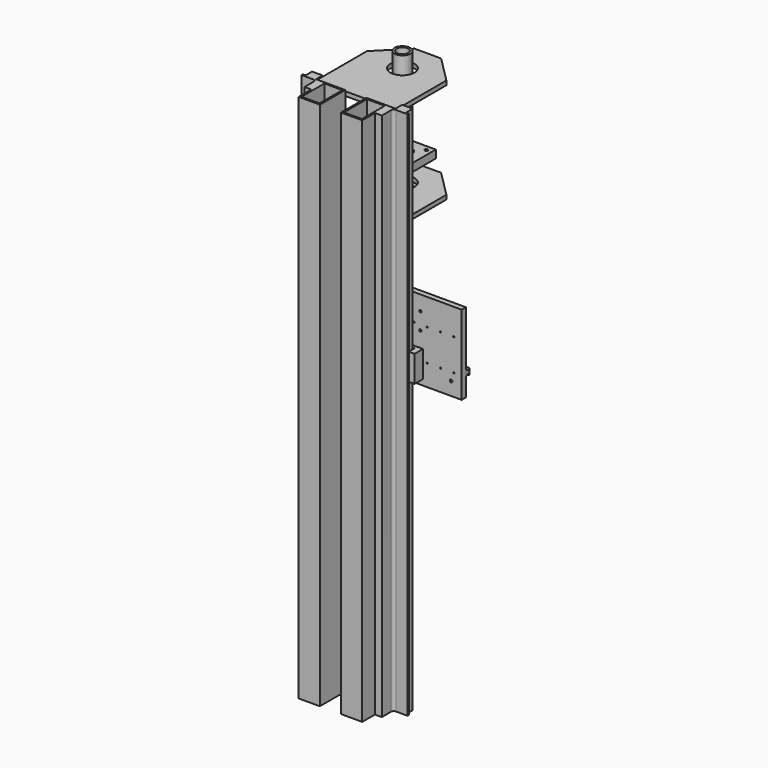
from build123d import *

# Parameters (mm, degrees)
SKETCH_W                = 34
SKETCH_H                = 54
PAD_DEPTH               = 1000
SKETCH001_W             = 34
SKETCH001_H             = 54
PAD001_DEPTH            = 1000
BODY001_PLACEMENT_ANGLE = 180
SKETCH002_W             = 150
SKETCH002_H             = 300
PAD002_DEPTH            = 10
SKETCH003_R             = 2.1
SKETCH003_R_2           = 2.5
SKETCH003_R_3           = 1.2
POCKET_DEPTH            = 10.001
SKETCH019_R             = 4
POCKET007_DEPTH         = 5
BODY002_PLACEMENT_ANGLE = 90
PAD003_DEPTH            = 50
SKETCH005_R             = 2.1
POCKET001_DEPTH         = 6
PAD004_DEPTH            = 50
SKETCH007_R             = 2.1
POCKET002_DEPTH         = 6
PAD005_DEPTH            = 8
SKETCH009_R             = 22.750056
POCKET003_DEPTH         = 8.001
BODY005_PLACEMENT_ANGLE = 90
PAD006_DEPTH            = 8
SKETCH011_R             = 22.750056
POCKET004_DEPTH         = 8.001
BODY006_PLACEMENT_ANGLE = 90
CHAMFER_SIZE            = 3
SKETCH013_R             = 3
HOLE_DEPTH              = 25
CHAMFER001_SIZE         = 2
BODY007_PLACEMENT_ANGLE = 90
SKETCH014_R             = 26
SKETCH014_R_2           = 17.5
PAD007_DEPTH            = 12
SKETCH015_R             = 15
SKETCH015_R_2           = 11
PAD008_DEPTH            = 250
SKETCH016_W             = 70
SKETCH016_H             = 70
PAD009_DEPTH            = 15
SKETCH017_R             = 26
POCKET005_DEPTH         = 11.8
SKETCH018_R             = 3
SKETCH018_R_2           = 17
POCKET006_DEPTH         = 15.001
BODY010_PLACEMENT_ANGLE = 180
PAD010_DEPTH            = 250
SKETCH021_R             = 1.5
POCKET008_DEPTH         = 8.15296
SKETCH022_R             = 3
POCKET009_DEPTH         = 5
BODY011_PLACEMENT_ANGLE = 90
PAD011_DEPTH            = 45.5
SKETCH024_R             = 1.4
POCKET010_DEPTH         = 6
BODY012_PLACEMENT_ANGLE = 90


with BuildPart() as obj1:
    # Sketch → Pad (new body)
    with BuildSketch(Plane.XY):
        with BuildLine():
            Line((0, 0), (40, 0))
            Line((40, 0), (40, 60))
            Line((40, 60), (-15, 60))
            Line((-15, 75.5), (-15, 60))
            Line((-35, 75.5), (-15, 75.5))
            Line((-35, 60), (-35, 75.5))
            Line((-35, 60), (-40, 60))
            Line((-40, 60), (-40, 57))
            Line((-40, 57), (-18, 57))
            ThreePointArc((-13, 52), (-14.464466, 55.535534), (-18, 57))
            Line((-13, 52), (-13, 30))
            Line((-13, 30), (0, 30))
            Line((0, 30), (0, 0))
        make_face()
        with Locations((20, 30)):
            Rectangle(SKETCH_W, SKETCH_H, mode=Mode.SUBTRACT)
    extrude(amount=PAD_DEPTH)


with BuildPart() as obj2:
    # Sketch001 → Pad001 (new body)
    with BuildSketch(Plane.XY):
        with BuildLine():
            Line((0, 0), (40, 0))
            Line((40, 0), (40, 60))
            Line((40, 60), (-15, 60))
            Line((-15, 75.5), (-15, 60))
            Line((-35, 75.5), (-15, 75.5))
            Line((-35, 60), (-35, 75.5))
            Line((-35, 60), (-40, 60))
            Line((-40, 60), (-40, 57))
            Line((-40, 57), (-18, 57))
            ThreePointArc((-13, 52), (-14.464466, 55.535534), (-18, 57))
            Line((-13, 52), (-13, 30))
            Line((-13, 30), (0, 30))
            Line((0, 30), (0, 0))
        make_face()
        with Locations((20, 30)):
            Rectangle(SKETCH001_W, SKETCH001_H, mode=Mode.SUBTRACT)
    extrude(amount=PAD001_DEPTH)


with BuildPart() as obj2_1:
    # Body001 placement: moved
    add(obj2.part.moved(Location((120, 0, 1000))).rotate(Axis((120, 0, 1000), (0, 1, 0)), BODY001_PLACEMENT_ANGLE))


with BuildPart() as obj3:
    # Sketch002 → Pad002 (new body)
    with BuildSketch(Plane.XZ):
        with Locations((75, 150)):
            Rectangle(SKETCH002_W, SKETCH002_H)
    extrude(amount=PAD002_DEPTH)

    # Sketch003 (on Face6 of Pad002) → Pocket (cut, through all)
    with BuildSketch(Plane.XZ.offset(10)):
        with Locations((20, 280)):
            Circle(SKETCH003_R)
        with Locations((52, 280)):
            Circle(SKETCH003_R)
        with Locations((20, 248)):
            Circle(SKETCH003_R)
        with Locations((52, 248)):
            Circle(SKETCH003_R)
        with Locations((90, 280)):
            Circle(SKETCH003_R)
        with Locations((122, 280)):
            Circle(SKETCH003_R)
        with Locations((90, 245)):
            Circle(SKETCH003_R)
        with Locations((122, 245)):
            Circle(SKETCH003_R)
        with Locations((20, 110)):
            Circle(SKETCH003_R)
        with Locations((52, 110)):
            Circle(SKETCH003_R)
        with Locations((20, 78)):
            Circle(SKETCH003_R)
        with Locations((52, 78)):
            Circle(SKETCH003_R)
        with Locations((90, 110)):
            Circle(SKETCH003_R)
        with Locations((122, 110)):
            Circle(SKETCH003_R)
        with Locations((90, 78)):
            Circle(SKETCH003_R)
        with Locations((122, 78)):
            Circle(SKETCH003_R)
        with Locations((25, 20)):
            Circle(SKETCH003_R_2)
        with Locations((40, 290)):
            Circle(SKETCH003_R_3)
        with Locations((100, 290)):
            Circle(SKETCH003_R_3)
        with Locations((40, 265)):
            Circle(SKETCH003_R_3)
        with Locations((100, 265)):
            Circle(SKETCH003_R_3)
        with Locations((40, 240)):
            Circle(SKETCH003_R_3)
        with Locations((100, 240)):
            Circle(SKETCH003_R_3)
        with Locations((40, 215)):
            Circle(SKETCH003_R_3)
        with Locations((100, 215)):
            Circle(SKETCH003_R_3)
        with Locations((40, 190)):
            Circle(SKETCH003_R_3)
        with Locations((100, 190)):
            Circle(SKETCH003_R_3)
        with Locations((40, 165)):
            Circle(SKETCH003_R_3)
        with Locations((100, 165)):
            Circle(SKETCH003_R_3)
        with Locations((40, 140)):
            Circle(SKETCH003_R_3)
        with Locations((100, 140)):
            Circle(SKETCH003_R_3)
        with Locations((40, 115)):
            Circle(SKETCH003_R_3)
        with Locations((100, 115)):
            Circle(SKETCH003_R_3)
        with Locations((40, 90)):
            Circle(SKETCH003_R_3)
        with Locations((100, 90)):
            Circle(SKETCH003_R_3)
        with Locations((40, 65)):
            Circle(SKETCH003_R_3)
        with Locations((100, 65)):
            Circle(SKETCH003_R_3)
        with Locations((40, 40)):
            Circle(SKETCH003_R_3)
        with Locations((100, 40)):
            Circle(SKETCH003_R_3)
        with Locations((40, 15)):
            Circle(SKETCH003_R_3)
        with Locations((100, 15)):
            Circle(SKETCH003_R_3)
    extrude(amount=-POCKET_DEPTH, mode=Mode.SUBTRACT)

    # Sketch019 (on Face4 of Pocket) → Pocket007 (cut)
    with BuildSketch(Plane(origin=(0, 0, 0), x_dir=(1, 0, 0), z_dir=(0, 1, 0))):
        with Locations((121.958676, -279.913208)):
            Circle(SKETCH019_R)
        with Locations((89.958676, -279.913208)):
            Circle(SKETCH019_R)
        with Locations((19.983463, -280.01099)):
            Circle(SKETCH019_R)
        with Locations((51.983463, -280.01099)):
            Circle(SKETCH019_R)
    extrude(amount=-POCKET007_DEPTH, mode=Mode.SUBTRACT)


with BuildPart() as obj3_1:
    # Body002 placement: moved
    add(obj3.part.moved(Location((239, 96, 539))).rotate(Axis((239, 96, 539), (0, -1, 0)), BODY002_PLACEMENT_ANGLE))


with BuildPart() as body003:
    # Sketch004 → Pad003 (new body)
    with BuildSketch(Plane.XY):
        Polygon((0, 0), (11, 0), (11, 14), (31, 14), (31, 0), (42, 0), (42, 22), (0, 22), align=None)
    extrude(amount=PAD003_DEPTH)

    # Sketch005 (on Face7 of Pad003) → Pocket001 (cut)
    with BuildSketch(Plane(origin=(0, 22, 0), x_dir=(-1, 0, 0), z_dir=(0, 1, 0))):
        with Locations((-37, 41)):
            Circle(SKETCH005_R)
        with Locations((-5, 9)):
            Circle(SKETCH005_R)
        with Locations((-5, 41)):
            Circle(SKETCH005_R)
        with Locations((-37, 9)):
            Circle(SKETCH005_R)
    extrude(amount=-POCKET001_DEPTH, mode=Mode.SUBTRACT)


with BuildPart() as body003_1:
    # Body003 placement: moved
    add(body003.part.moved(Location((-46, 66, 550))))


with BuildPart() as body004:
    # Sketch006 → Pad004 (new body)
    with BuildSketch(Plane.XY):
        Polygon((0, 0), (11, 0), (11, 14), (31, 14), (31, 0), (42, 0), (42, 22), (0, 22), align=None)
    extrude(amount=PAD004_DEPTH)

    # Sketch007 (on Face7 of Pad004) → Pocket002 (cut)
    with BuildSketch(Plane(origin=(0, 22, 0), x_dir=(-1, 0, 0), z_dir=(0, 1, 0))):
        with Locations((-37, 41)):
            Circle(SKETCH007_R)
        with Locations((-5, 9)):
            Circle(SKETCH007_R)
        with Locations((-5, 41)):
            Circle(SKETCH007_R)
        with Locations((-37, 9)):
            Circle(SKETCH007_R)
    extrude(amount=-POCKET002_DEPTH, mode=Mode.SUBTRACT)


with BuildPart() as body004_1:
    # Body004 placement: moved
    add(body004.part.moved(Location((124, 66, 550))))


with BuildPart() as obj4:
    # Sketch008 → Pad005 (new body)
    with BuildSketch(Plane.XZ):
        Polygon((0, 0), (150, 0), (150, 120), (100, 170), (50, 170), (0, 120), align=None)
    extrude(amount=PAD005_DEPTH)

    # Sketch009 (on Face8 of Pad005) → Pocket003 (cut, through all)
    with BuildSketch(Plane.XZ.offset(8)):
        with Locations((75, 110)):
            Circle(SKETCH009_R)
    extrude(amount=-POCKET003_DEPTH, mode=Mode.SUBTRACT)


with BuildPart() as obj4_1:
    # Body005 placement: moved
    add(obj4.part.moved(Location((-15, 60, 800))).rotate(Axis((-15, 60, 800), (-1, 0, 0)), BODY005_PLACEMENT_ANGLE))


with BuildPart() as obj5:
    # Sketch010 → Pad006 (new body)
    with BuildSketch(Plane.XZ):
        Polygon((0, 0), (150, 0), (150, 120), (100, 170), (50, 170), (0, 120), align=None)
    extrude(amount=PAD006_DEPTH)

    # Sketch011 (on Face8 of Pad006) → Pocket004 (cut, through all)
    with BuildSketch(Plane.XZ.offset(8)):
        with Locations((75, 110)):
            Circle(SKETCH011_R)
    extrude(amount=-POCKET004_DEPTH, mode=Mode.SUBTRACT)


with BuildPart() as obj5_1:
    # Body006 placement: moved
    add(obj5.part.moved(Location((-15, 60, 990))).rotate(Axis((-15, 60, 990), (-1, 0, 0)), BODY006_PLACEMENT_ANGLE))


with BuildPart() as obj6:
    # Sketch012 → Revolution (revolve)
    with BuildSketch(Plane.XZ):
        Polygon((0, 14), (0, 25), (7, 25), (7, 50), (13, 50), (13, 36), (16, 36), (16, 14), align=None)
    revolve(axis=Axis((0, 0, 0), (1, 0, 0)))

    # Chamfer
    chamfer_edges = [obj6.edges().sort_by_distance(p)[0] for p in [
        (16, 0, -14),
    ]]
    chamfer(chamfer_edges, length=CHAMFER_SIZE)

    # Sketch013 (on Face9 of Chamfer) → Hole (cut)
    with BuildSketch(Plane(origin=(7, 0, 0), x_dir=(0, 0, -1), z_dir=(-1, 0, 0))):
        with Locations((0, 42.5)):
            Circle(SKETCH013_R)
        with Locations((36.80608, -21.25)):
            Circle(SKETCH013_R)
        with Locations((-36.80608, -21.25)):
            Circle(SKETCH013_R)
    extrude(amount=-HOLE_DEPTH, mode=Mode.SUBTRACT)

    # Chamfer001
    chamfer001_edges = [obj6.edges().sort_by_distance(p)[0] for p in [
        (7, -39.5, 0),
        (7, 24.25, 36.80608),
        (7, 24.25, -36.80608),
    ]]
    chamfer(chamfer001_edges, length=CHAMFER001_SIZE)


with BuildPart() as obj6_1:
    # Body007 placement: moved
    add(obj6.part.moved(Location((60, 170, 793))).rotate(Axis((60, 170, 793), (0, 1, 0)), BODY007_PLACEMENT_ANGLE))


with BuildPart() as obj7:
    # Sketch014 → Pad007 (new body)
    with BuildSketch(Plane.XY):
        Circle(SKETCH014_R)
        Circle(SKETCH014_R_2, mode=Mode.SUBTRACT)
    extrude(amount=PAD007_DEPTH)


with BuildPart() as obj7_1:
    # Body008 placement: moved
    add(obj7.part.moved(Location((60, 170, 787))))


with BuildPart() as obj8:
    # Sketch015 → Pad008 (new body)
    with BuildSketch(Plane.XY):
        Circle(SKETCH015_R)
        Circle(SKETCH015_R_2, mode=Mode.SUBTRACT)
    extrude(amount=PAD008_DEPTH)


with BuildPart() as obj8_1:
    # Body009 placement: moved
    add(obj8.part.moved(Location((60, 170, 777))))


with BuildPart() as flangiacuscinetto52:
    # Sketch016 → Pad009 (new body)
    with BuildSketch(Plane.XY):
        Rectangle(SKETCH016_W, SKETCH016_H)
    extrude(amount=PAD009_DEPTH)

    # Sketch017 (on Face6 of Pad009) → Pocket005 (cut)
    with BuildSketch(Plane.XY.offset(15)):
        Circle(SKETCH017_R)
    extrude(amount=-POCKET005_DEPTH, mode=Mode.SUBTRACT)

    # Sketch018 (on Face5 of Pocket005) → Pocket006 (cut, through all)
    with BuildSketch(Plane.XY.offset(15)):
        with Locations((-25, 25)):
            Circle(SKETCH018_R)
        with Locations((25, 25)):
            Circle(SKETCH018_R)
        with Locations((25, -25)):
            Circle(SKETCH018_R)
        with Locations((-25, -25)):
            Circle(SKETCH018_R)
        Circle(SKETCH018_R_2)
    extrude(amount=-POCKET006_DEPTH, mode=Mode.SUBTRACT)


with BuildPart() as flangiacuscinetto52_1:
    # Body010 placement: moved
    add(flangiacuscinetto52.part.moved(Location((60, 170, 860))).rotate(Axis((60, 170, 860), (1, 0, 0)), BODY010_PLACEMENT_ANGLE))


with BuildPart() as obj9:
    # Sketch020 → Pad010 (new body)
    with BuildSketch(Plane.XY):
        with BuildLine():
            Line((-5.5, 0), (5.5, 0))
            ThreePointArc((5.5, 0), (5.949397, 0.280814), (5.894005, 0.807831))
            Line((2.5, 5.15196), (5.894005, 0.807831))
            Line((5.768277, 7.230027), (2.5, 5.15196))
            ThreePointArc((5.768277, 7.230027), (5.980087, 7.791662), (5.5, 8.15196))
            Line((5.5, 8.15196), (-5.5, 8.15196))
            ThreePointArc((-5.5, 8.15196), (-5.980087, 7.791662), (-5.768277, 7.230027))
            Line((-5.768277, 7.230027), (-2.5, 5.15196))
            Line((-2.5, 5.15196), (-5.894005, 0.807831))
            ThreePointArc((-5.894005, 0.807831), (-5.949397, 0.280814), (-5.5, 0))
        make_face()
    extrude(amount=PAD010_DEPTH)

    # Sketch021 (on Face2 of Pad010) → Pocket008 (cut, through all)
    with BuildSketch(Plane(origin=(0, 8.15196, 0), x_dir=(-1, 0, 0), z_dir=(0, 1, 0))):
        with Locations((0, 10)):
            Circle(SKETCH021_R)
        with Locations((0, 35)):
            Circle(SKETCH021_R)
        with Locations((0, 60)):
            Circle(SKETCH021_R)
        with Locations((0, 85)):
            Circle(SKETCH021_R)
        with Locations((0, 110)):
            Circle(SKETCH021_R)
        with Locations((0, 135)):
            Circle(SKETCH021_R)
        with Locations((0, 160)):
            Circle(SKETCH021_R)
        with Locations((0, 185)):
            Circle(SKETCH021_R)
        with Locations((0, 210)):
            Circle(SKETCH021_R)
        with Locations((0, 235)):
            Circle(SKETCH021_R)
    extrude(amount=-POCKET008_DEPTH, mode=Mode.SUBTRACT)

    # Sketch022 (on Face3 of Pocket008) → Pocket009 (cut)
    with BuildSketch(Plane(origin=(0, 8.15196, 0), x_dir=(-1, 0, 0), z_dir=(0, 1, 0))):
        with Locations((0, 235)):
            Circle(SKETCH022_R)
        with Locations((0, 210)):
            Circle(SKETCH022_R)
        with Locations((0, 185)):
            Circle(SKETCH022_R)
        with Locations((0, 160)):
            Circle(SKETCH022_R)
        with Locations((0, 135)):
            Circle(SKETCH022_R)
        with Locations((0, 110)):
            Circle(SKETCH022_R)
        with Locations((0, 85)):
            Circle(SKETCH022_R)
        with Locations((0, 60)):
            Circle(SKETCH022_R)
        with Locations((0, 35)):
            Circle(SKETCH022_R)
        with Locations((0, 10)):
            Circle(SKETCH022_R)
    extrude(amount=-POCKET009_DEPTH, mode=Mode.SUBTRACT)


with BuildPart() as obj9_1:
    # Body011 placement: moved
    add(obj9.part.moved(Location((-11, 96, 579))).rotate(Axis((-11, 96, 579), (0, 1, 0)), BODY011_PLACEMENT_ANGLE))


with BuildPart() as obj10:
    # Sketch023 → Pad011 (new body)
    with BuildSketch(Plane.XY):
        with BuildLine():
            Line((12.715, 0), (12.715, 10))
            Line((12.715, 10), (-12.715, 10))
            Line((-12.715, 10), (-12.715, 0))
            Line((-12.715, 0), (-4.390988, 0))
            Line((-2.984796, 1.799844), (-4.390988, 0))
            ThreePointArc((-2.984796, 1.799844), (-2.906077, 2.115568), (-3.088032, 2.385328))
            Line((-5.817952, 4.091171), (-3.088032, 2.385328))
            ThreePointArc((-5.5, 5.2), (-6.076757, 4.765382), (-5.817952, 4.091171))
            Line((-5.5, 5.2), (5.5, 5.2))
            ThreePointArc((5.817952, 4.091171), (6.076757, 4.765382), (5.5, 5.2))
            Line((5.817952, 4.091171), (3.088032, 2.385328))
            ThreePointArc((3.088032, 2.385328), (2.906077, 2.115568), (2.984796, 1.799844))
            Line((2.984796, 1.799844), (4.390988, 0))
            Line((4.390988, 0), (12.715, 0))
        make_face()
    extrude(amount=PAD011_DEPTH)

    # Sketch024 (on Face6 of Pad011) → Pocket010 (cut)
    with BuildSketch(Plane(origin=(0, 10, 0), x_dir=(-1, 0, 0), z_dir=(0, 1, 0))):
        with Locations((-10, 12)):
            Circle(SKETCH024_R)
        with Locations((-10, 32)):
            Circle(SKETCH024_R)
        with Locations((10, 32)):
            Circle(SKETCH024_R)
        with Locations((10, 12)):
            Circle(SKETCH024_R)
    extrude(amount=-POCKET010_DEPTH, mode=Mode.SUBTRACT)


with BuildPart() as obj10_1:
    # Body012 placement: moved
    add(obj10.part.moved(Location((20, 99, 579))).rotate(Axis((20, 99, 579), (0, 1, 0)), BODY012_PLACEMENT_ANGLE))


solid = Compound([obj1.part, obj2_1.part, obj3_1.part, body003_1.part, body004_1.part, obj4_1.part, obj5_1.part, obj6_1.part, obj7_1.part, obj8_1.part, flangiacuscinetto52_1.part, obj9_1.part, obj10_1.part])
